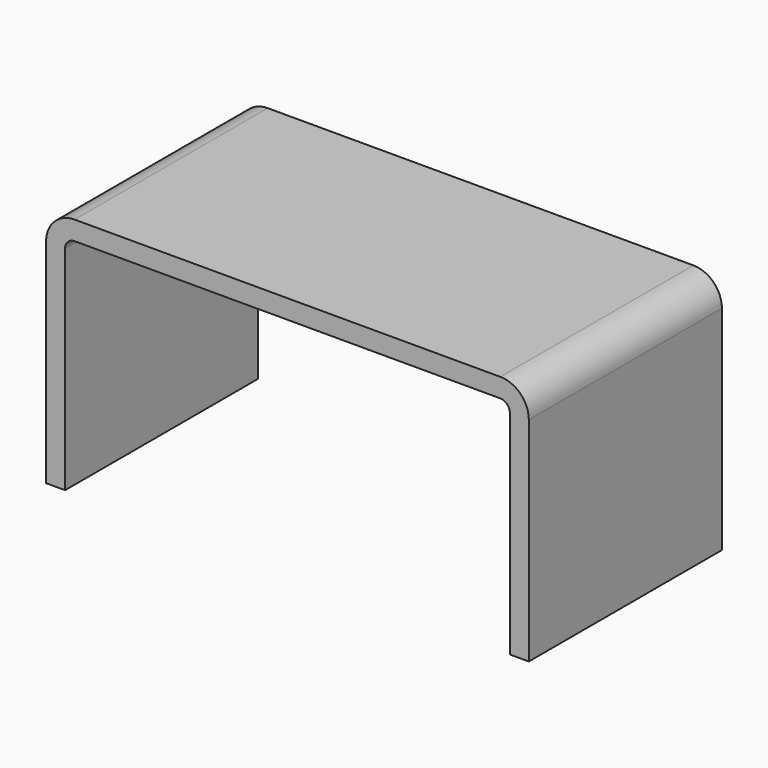
from build123d import *

# Parameters (mm, degrees)
F0_W     = 50.8
F0_H     = 25.4
F1_DEPTH = 12.7
F2_W     = 46.8
F2_H     = 23.4
F3_DEPTH = 25.4
F4_R     = 3
F5_R     = 1


with BuildPart() as f1:
    # F0 (on Front) → F1 (new body, symmetric)
    with BuildSketch(Plane.XZ):
        Rectangle(F0_W, F0_H)
    extrude(amount=F1_DEPTH, both=True)

    # F2 (on face) → F3 (cut, through all)
    with BuildSketch(Plane.XZ.offset(12.7)):
        with Locations((0, -1)):
            Rectangle(F2_W, F2_H)
    extrude(amount=-F3_DEPTH, mode=Mode.SUBTRACT)

    # F4
    f4_edges = [f1.edges().sort_by_distance(p)[0] for p in [
        (-25.4, 0, 12.7),
        (25.4, 0, 12.7),
    ]]
    fillet(f4_edges, radius=F4_R)

    # F5
    f5_edges = [f1.edges().sort_by_distance(p)[0] for p in [
        (-23.4, 0, 10.7),
        (23.4, 0, 10.7),
    ]]
    fillet(f5_edges, radius=F5_R)


solid = f1.part
